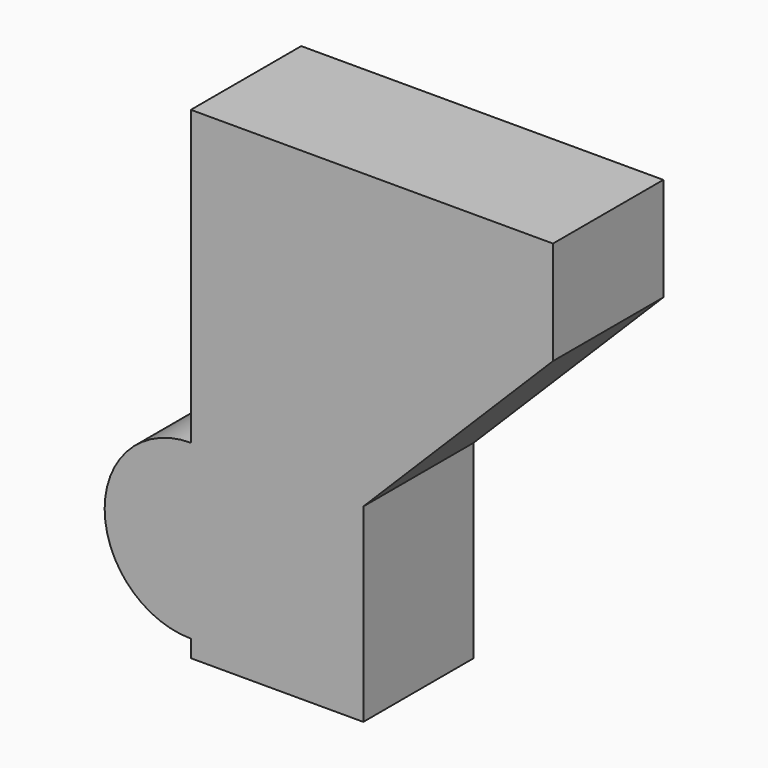
from build123d import *

# Parameters (mm, degrees)
CYLINDER189_R               = 5
CYLINDER189_DEPTH           = 8
CYLINDER189_ROLL_ANGLE      = 90
BOX001027045139_W           = 21
BOX001027045139_H           = 10
BOX001027045139_DEPTH       = 28
BOX001027045139_PITCH_ANGLE = 45
BOX001027045138_W           = 21
BOX001027045138_H           = 10
BOX001027045138_DEPTH       = 28
BOX001027045137_W           = 21
BOX001027045137_H           = 8
BOX001027045137_DEPTH       = 28


with BuildPart() as screw_bump_top:
    # Cylinder189 → Cylinder189 (new body)
    with BuildSketch(Plane.XY):
        Circle(CYLINDER189_R)
    extrude(amount=CYLINDER189_DEPTH)


with BuildPart() as screw_bump_top_1:
    # Cylinder189 roll: moved
    add(screw_bump_top.part.rotate(Axis((0, 0, 0), (1, 0, 0)), CYLINDER189_ROLL_ANGLE))


with BuildPart() as screw_bump_top_2:
    # Cylinder189 placement: moved
    add(screw_bump_top_1.part.moved(Location((-6, 0, -1))))


with BuildPart() as cube192:
    # Box001027045139 → Box001027045139 (new body)
    with BuildSketch(Plane.XY):
        with Locations((10.5, 5)):
            Rectangle(BOX001027045139_W, BOX001027045139_H)
    extrude(amount=BOX001027045139_DEPTH)


with BuildPart() as cube192_1:
    # Box001027045139 pitch: moved
    add(cube192.part.rotate(Axis((0, 0, 0), (0, 1, 0)), BOX001027045139_PITCH_ANGLE))


with BuildPart() as cube192_2:
    # Box001027045139 placement: moved
    add(cube192_1.part.moved(Location((-6, -9, 21))))


with BuildPart() as fusion112087:
    # Box001027045138 → Box001027045138 (new body)
    with BuildSketch(Plane(origin=(-6, -9, -7), x_dir=(1, 0, 0), z_dir=(0, 0, 1))):
        with Locations((10.5, 5)):
            Rectangle(BOX001027045138_W, BOX001027045138_H)
    extrude(amount=BOX001027045138_DEPTH)

    # Fusion112087: union Cube192
    add(cube192_2.part)


with BuildPart() as fusion112087_1:
    # Fusion112087 placement: moved
    add(fusion112087.part.moved(Location((10, 0, -17))))


with BuildPart() as top_ghost:
    # Box001027045137 → Box001027045137 (new body)
    with BuildSketch(Plane(origin=(-6, -8, -7), x_dir=(1, 0, 0), z_dir=(0, 0, 1))):
        with Locations((10.5, 4)):
            Rectangle(BOX001027045137_W, BOX001027045137_H)
    extrude(amount=BOX001027045137_DEPTH)

    # Cut160: cut Fusion112087
    add(fusion112087_1.part, mode=Mode.SUBTRACT)

    # Fusion112089: union screw-bump-top
    add(screw_bump_top_2.part)


with BuildPart() as top_ghost_1:
    # Fusion112089 placement: moved
    add(top_ghost.part.moved(Location((0, 0, 28))))


solid = top_ghost_1.part
